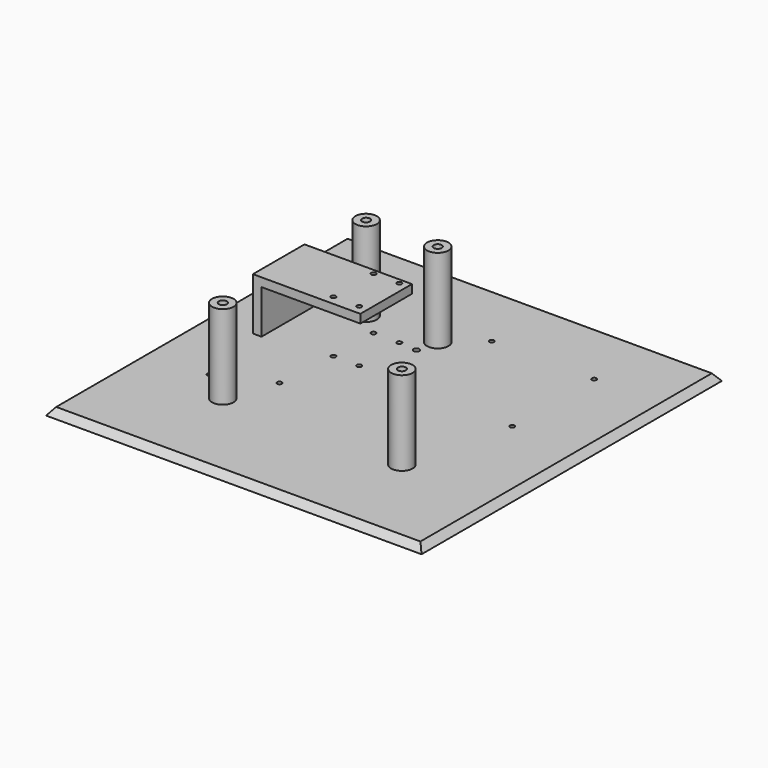
from build123d import *

# Parameters (mm, degrees)
SKETCH027_R      = 1.625
SKETCH027_R_2    = 2
SKETCH027_R_3    = 2.8
SKETCH027_R_4    = 1.65
EXTRUDE004_DEPTH = 80
EXTRUDE003_DEPTH = 45
SKETCH025_W      = 275
SKETCH025_H      = 275
EXTRUDE002_DEPTH = 5
SKETCH023_W      = 275
SKETCH023_H      = 275
SKETCH024_W      = 0.1
SKETCH024_H      = 0.1
SKETCH_R         = 7.5
EXTRUDE001_DEPTH = 63.75


with BuildPart() as extrude004:
    # Sketch027 → Extrude004 (new body)
    with BuildSketch(Plane.XY):
        with Locations((51.75, 92.5)):
            Circle(SKETCH027_R)
        with Locations((87.75, 108.5)):
            Circle(SKETCH027_R)
        with Locations((121.75, 185.5)):
            Circle(SKETCH027_R_2)
        with Locations((147.3, 147.75)):
            Circle(SKETCH027_R)
        with Locations((218.8, 147.75)):
            Circle(SKETCH027_R)
        with Locations((218.8, 219.25)):
            Circle(SKETCH027_R)
        with Locations((147.3, 219.25)):
            Circle(SKETCH027_R)
        with Locations((75, 200)):
            Circle(SKETCH027_R_3)
        with Locations((125, 200)):
            Circle(SKETCH027_R_3)
        with Locations((200, 75)):
            Circle(SKETCH027_R_3)
        with Locations((75, 75)):
            Circle(SKETCH027_R_3)
        with Locations((91, 186.5)):
            Circle(SKETCH027_R_4)
        with Locations((109, 186.5)):
            Circle(SKETCH027_R_4)
        with Locations((91, 151.5)):
            Circle(SKETCH027_R_4)
        with Locations((109, 151.5)):
            Circle(SKETCH027_R_4)
    extrude(amount=EXTRUDE004_DEPTH)


with BuildPart() as extrude003:
    # Sketch026 → Extrude003 (new body)
    with BuildSketch(Plane.XZ):
        Polygon((46, 5), (40, 5), (40, 41.5), (115, 41.5), (115, 35.5), (46, 35.5), align=None)
    extrude(amount=EXTRUDE003_DEPTH)


with BuildPart() as extrude003_1:
    # Extrude003 placement: moved
    add(extrude003.part.moved(Location((0, 190, 0))))


with BuildPart() as level01s001:
    # Sketch025 → Extrude002 (new body)
    with BuildSketch(Plane.XY):
        with Locations((137.5, 137.5)):
            Rectangle(SKETCH025_W, SKETCH025_H)
    extrude(amount=EXTRUDE002_DEPTH)


with BuildPart() as baselevel:
    # Sketch023 → Loft004 section 0
    with BuildSketch(Plane.XY):
        with Locations((137.5, 137.5)):
            Rectangle(SKETCH023_W, SKETCH023_H)
    # Sketch024 → Loft004 section 1
    with BuildSketch(Plane.XY.offset(175.1)):
        with Locations((137.5, 137.5)):
            Rectangle(SKETCH024_W, SKETCH024_H)
    loft()


with BuildPart() as baselevel_1:
    # Loft004 placement: moved
    add(baselevel.part.moved(Location((0, 0, -8.25))))

    # Common001: intersect level01s001
    add(level01s001.part, mode=Mode.INTERSECT)


with BuildPart() as level02:
    # Sketch → Extrude001 (new body)
    with BuildSketch(Plane.XY):
        with Locations((75, 200)):
            Circle(SKETCH_R)
        with Locations((125, 200)):
            Circle(SKETCH_R)
        with Locations((75, 75)):
            Circle(SKETCH_R)
        with Locations((200, 75)):
            Circle(SKETCH_R)
    extrude(amount=EXTRUDE001_DEPTH)

    # Fusion: union BaseLevel
    add(baselevel_1.part)

    # Fusion056: union Extrude003
    add(extrude003_1.part)

    # Cut001: cut Extrude004
    add(extrude004.part, mode=Mode.SUBTRACT)


solid = level02.part
